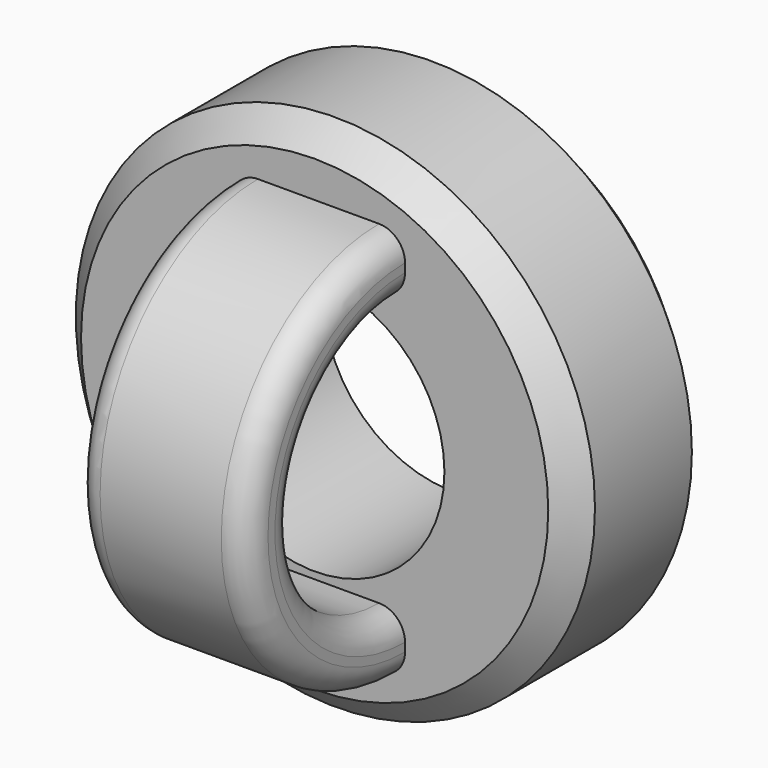
from build123d import *

# Parameters (mm, degrees)
F0_R     = 38.1
F0_R_2   = 19.05
F1_DEPTH = 25.4
F2_W     = 25.4
F2_H     = 8.89
F3_ANGLE = 180
F4_R     = 3.81
F5_SIZE  = 3.81


with BuildPart() as f1:
    # F0 (on Front) → F1 (new body)
    with BuildSketch(Plane.XZ):
        Circle(F0_R)
        Circle(F0_R_2, mode=Mode.SUBTRACT)
    extrude(amount=F1_DEPTH)

    # F2 (on face) → F3 (revolve)
    with BuildSketch(Plane.XZ.offset(25.4)):
        with Locations((0.5661081523, 24.5059088439)):
            Rectangle(F2_W, F2_H)
    revolve(axis=Axis((-5.3780302405, -25.4, 0), (1, 0, 0)), revolution_arc=F3_ANGLE)

    # F4
    f4_edges = [f1.edges().sort_by_distance(p)[0] for p in [
        (13.266108, -54.350909, 0),
        (-12.133892, -54.350909, 0),
        (13.266108, -45.460909, 0),
        (-12.133892, -45.460909, 0),
    ]]
    fillet(f4_edges, radius=F4_R)

    # F5
    f5_edges = [f1.edges().sort_by_distance(p)[0] for p in [
        (-38.1, -25.4, 0),
        (-38.1, 0, 0),
    ]]
    chamfer(f5_edges, length=F5_SIZE)


solid = f1.part
